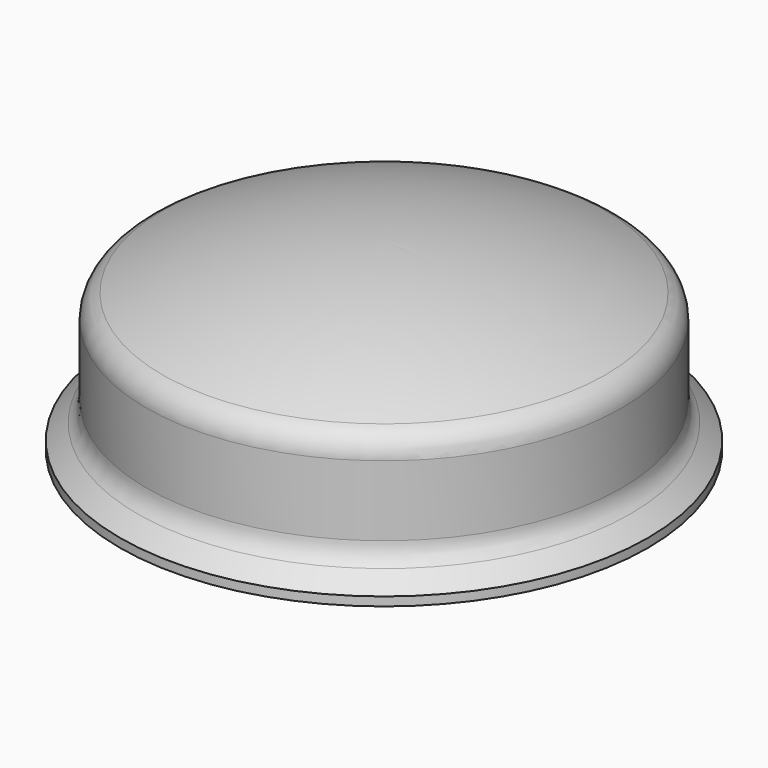
from build123d import *

# Parameters (mm, degrees)
SKETCH009_R  = 6
PAD005_DEPTH = 0.2
SKETCH010_R  = 2.75
PAD006_DEPTH = 0.6
FILLET_R     = 0.1


with BuildPart() as body_clear_cover:
    # Sketch008 → Revolution (revolve)
    with BuildSketch(Plane.XZ):
        with BuildLine():
            Line((6, 0), (0, 0))
            Line((0, 0), (0, 4))
            ThreePointArc((5.039601, 2.950083), (2.573903, 3.734733), (0, 4))
            ThreePointArc((5.4, 2.4), (5.301877, 2.728816), (5.039601, 2.950083))
            Line((5.4, 2.4), (5.4, 0.8))
            ThreePointArc((5.4, 0.8), (5.453137, 0.553137), (5.603137, 0.35))
            Line((5.603137, 0.35), (6, 0))
        make_face()
    revolve(axis=Axis((0, 0, 0), (0, 0, 1)))


with BuildPart() as body_base:
    # Sketch009 → Pad005 (new body)
    with BuildSketch(Plane.XY):
        Circle(SKETCH009_R)
    extrude(amount=-PAD005_DEPTH)


with BuildPart() as body_pupil:
    # Sketch010 → Pad006 (new body)
    with BuildSketch(Plane.XY):
        with Locations((1.1, 1.1)):
            Circle(SKETCH010_R)
    extrude(amount=PAD006_DEPTH)

    # Fillet
    fillet_edges = [body_pupil.edges().sort_by_distance(p)[0] for p in [
        (-1.65, 1.1, 0),
        (-1.65, 1.1, 0.6),
    ]]
    fillet(fillet_edges, radius=FILLET_R)


solid = Compound([body_clear_cover.part, body_base.part, body_pupil.part])
